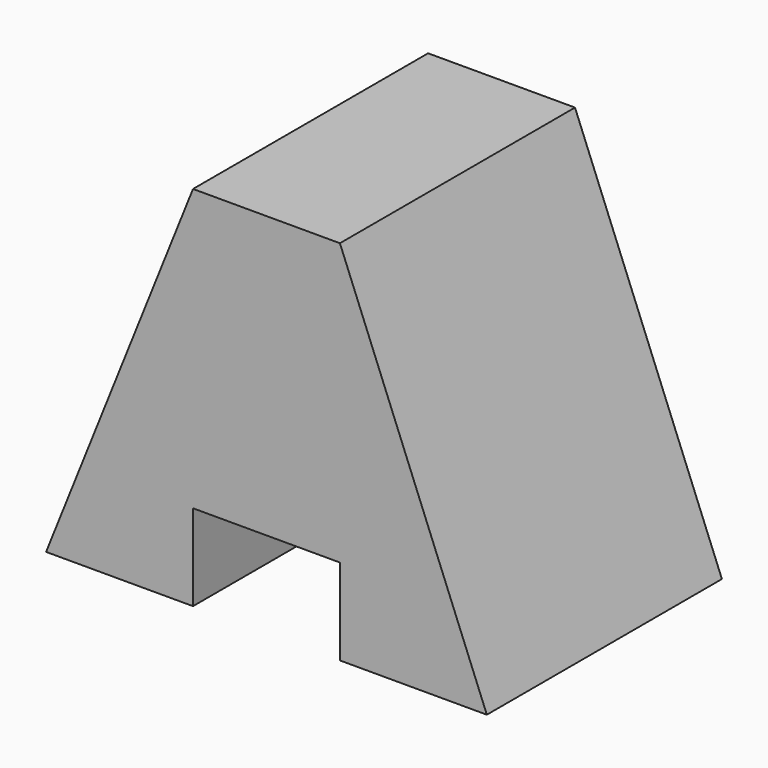
from build123d import *

# Parameters (mm, degrees)
F0_W     = 38.1
F0_H     = 31.75
F1_DEPTH = 25.4
F2_W     = 12.7
F2_H     = 7.451912
F3_DEPTH = 25.401


with BuildPart() as f1:
    # F0 (on Front) → F1 (new body)
    with BuildSketch(Plane.XZ):
        with Locations((-19.05, 15.875)):
            Rectangle(F0_W, F0_H)
    extrude(amount=F1_DEPTH)

    # F2 (on face) → F3 (cut, through all)
    with BuildSketch(Plane(origin=(0, 0, 0), x_dir=(-1, 0, 0), z_dir=(0, 1, 0))):
        Polygon((0, 0), (12.7, 31.75), (0, 31.75), align=None)
        Polygon((38.1, 31.75), (25.4, 31.75), (38.1, 0), align=None)
        with Locations((19.05, 3.725956)):
            Rectangle(F2_W, F2_H)
    extrude(amount=-F3_DEPTH, mode=Mode.SUBTRACT)


solid = f1.part
